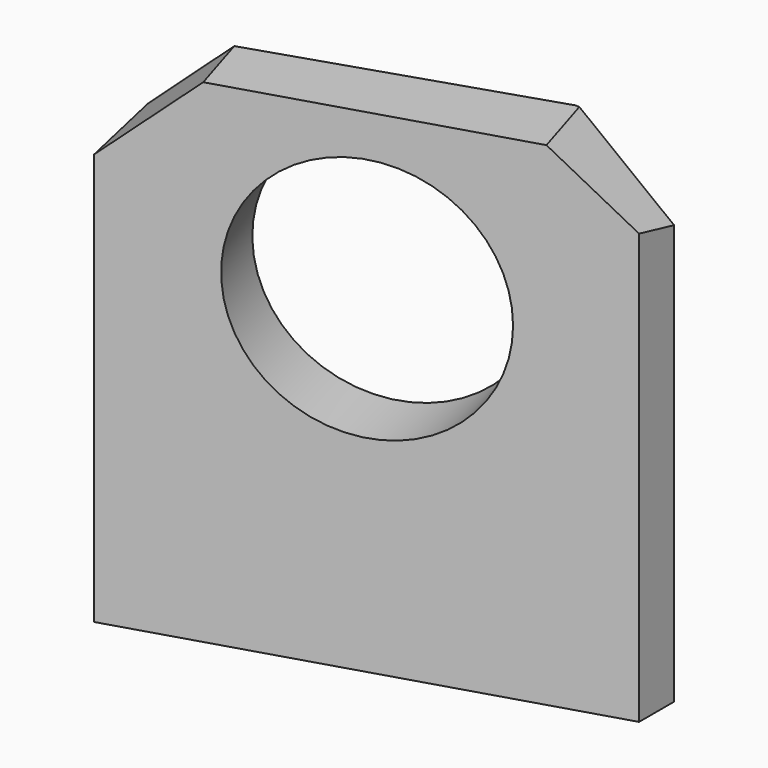
from build123d import *

# Parameters (mm, degrees)
PAD005_DEPTH    = 45
SKETCH012_R     = 11.2
POCKET006_DEPTH = 15.5210872128
POCKET_DEPTH    = 15.5210872128
POCKET007_DEPTH = 31


with BuildPart() as part:
    # Sketch004 → Pad005 (new body)
    with BuildSketch(Plane.XY):
        Polygon((42, -62), (2, -62), (2, -78.2292272583), (42, -66), align=None)
    extrude(amount=PAD005_DEPTH)

    # Sketch012 → Pocket006 (cut, through all)
    with BuildSketch(Plane(origin=(22.0435767909, -72.1012908672, 0), x_dir=(0.956304756, 0.2923717047, 0), z_dir=(0.2923717047, -0.956304756, 0))):
        with Locations((0, 30)):
            Circle(SKETCH012_R)
    extrude(amount=-POCKET006_DEPTH, mode=Mode.SUBTRACT)

    # Sketch013 → Pocket (cut, through all)
    with BuildSketch(Plane(origin=(22.0435767909, -72.1012908672, 0), x_dir=(0.956304756, 0.2923717047, 0), z_dir=(0.2923717047, -0.956304756, 0))):
        Polygon((0, 56.1345), (33.1881878236, 29.2826289434), (33.1881878236, 69.8913260191), (-31.9570121764, 69.8913260191), (-31.9570121764, 27.8285260191), align=None)
    extrude(amount=-POCKET_DEPTH, mode=Mode.SUBTRACT)

    # Sketch014 → Pocket007 (cut)
    with BuildSketch(Plane.XY.offset(45)):
        Polygon((45.8903901048, -57.7868109147), (-5.585371219, -74.5487714011), (-10.263824653, -60.1813021227), (41.2119366707, -43.4193416363), align=None)
    extrude(amount=-POCKET007_DEPTH, mode=Mode.SUBTRACT)


solid = part.part
